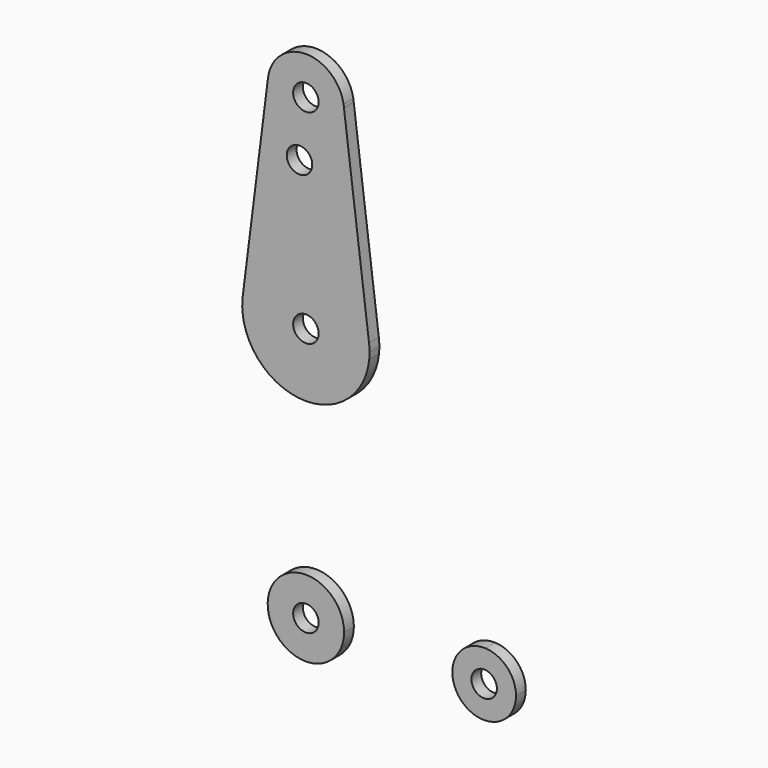
from build123d import *

# Parameters (mm, degrees)
F0_R     = 3.175
F1_DEPTH = 3.048


with BuildPart() as f1:
    # F0 (on Front) → F1 (new body)
    with BuildSketch(Plane.XZ):
        with BuildLine():
            ThreePointArc((9.4926232832, 115.0846835052), (9.4500845614, 115.4922779803), (9.3900527262, 115.8976654218))
            Line((9.3900527262, 115.8976654218), (9.4926232832, 115.0846835052))
        make_face()
        with BuildLine():
            ThreePointArc((15.7501409357, 65.4871299672), (-0.0013883883, 79.3749999393), (-15.7504882737, 65.484375))
            ThreePointArc((-15.7504882737, 65.484375), (-15.8737438155, 63.6997054867), (-15.7954255641, 61.9125))
            ThreePointArc((-15.7954255641, 61.9125), (-0.0051859112, 47.625000847), (15.7943850107, 61.9021805065))
            ThreePointArc((15.7943850107, 61.9021805065), (15.8548334435, 62.7000740799), (15.875, 63.5))
            ThreePointArc((15.875, 63.5), (15.8437544849, 64.495524396), (15.7501409357, 65.4871299672))
        make_face()
        with Locations((0, 63.5)):
            Circle(F0_R, mode=Mode.SUBTRACT)
        with BuildLine():
            Line((9.4926232832, 115.0846835052), (9.3900527262, 115.8976654218))
            ThreePointArc((9.3900527262, 115.8976654218), (-0.2057369627, 123.8227778144), (-9.4502929642, 115.490625))
            ThreePointArc((-9.4502929642, 115.490625), (-0.596483242, 104.7936951058), (9.525, 114.3))
            ThreePointArc((9.525, 114.3), (9.5169023787, 114.6926755834), (9.4926232832, 115.0846835052))
        make_face()
        with Locations((0, 114.3)):
            Circle(F0_R, mode=Mode.SUBTRACT)
        with BuildLine():
            ThreePointArc((9.525, 114.3), (-0.596483242, 104.7936951058), (-9.4502929642, 115.490625))
            Line((-9.4502929642, 115.490625), (-15.7504882737, 65.484375))
            ThreePointArc((-15.7504882737, 65.484375), (-0.0013883883, 79.3749999393), (15.7501409357, 65.4871299672))
            Line((15.7501409357, 65.4871299672), (9.4926232832, 115.0846835052))
            ThreePointArc((9.4926232832, 115.0846835052), (9.5169023787, 114.6926755834), (9.525, 114.3))
        make_face()
        with Locations((-1.5875, 100.0252)):
            Circle(F0_R, mode=Mode.SUBTRACT)
    extrude(amount=F1_DEPTH)


with BuildPart() as f1b:
    # F0 (on Front) → F1, piece 2 (new body)
    with BuildSketch(Plane.XZ):
        with BuildLine():
            ThreePointArc((0, -9.525), (0.3388863295, -9.5189695375), (0.6773435479, -9.500885786))
            Line((0.6773435479, -9.500885786), (0, -9.525))
        make_face()
        with BuildLine():
            Line((0, -9.525), (0.6773435479, -9.500885786))
            ThreePointArc((0.6773435479, -9.500885786), (6.9705567315, -6.4912990883), (9.525, 0))
            ThreePointArc((9.525, 0), (-6.7351920908, 6.7351920908), (0, -9.525))
        make_face()
        Circle(F0_R, mode=Mode.SUBTRACT)
    extrude(amount=F1_DEPTH)


with BuildPart() as f1c:
    # F0 (on Front) → F1, piece 3 (new body)
    with BuildSketch(Plane.XZ):
        with BuildLine():
            ThreePointArc((52.3875, 0), (50.1616327839, 5.5119104847), (44.7324052746, 7.9324746146))
            ThreePointArc((44.7324052746, 7.9324746146), (36.5125, 0), (44.7324052746, -7.9324746146))
            ThreePointArc((44.7324052746, -7.9324746146), (50.1616327839, -5.5119104847), (52.3875, 0))
        make_face()
        with Locations((44.45, 0)):
            Circle(F0_R, mode=Mode.SUBTRACT)
    extrude(amount=F1_DEPTH)


solid = Compound([f1.part, f1b.part, f1c.part])
